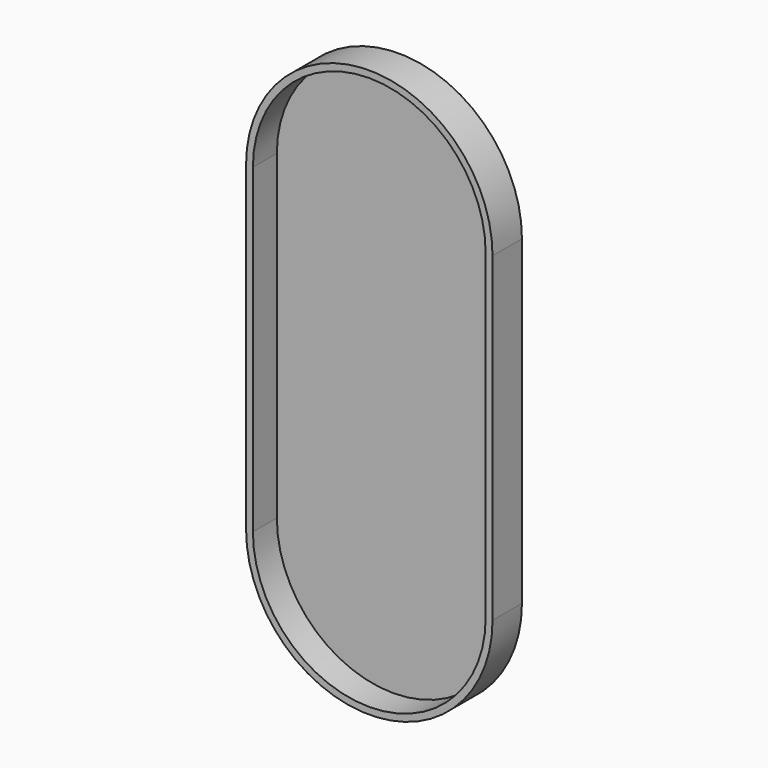
from build123d import *

# Parameters (mm, degrees)
F3_DEPTH = 7
F4_DEPTH = 1.6


with BuildPart() as f3:
    # F2 (on Front) → F3 (new body)
    with BuildSketch(Plane.XZ):
        with BuildLine():
            ThreePointArc((28.8, 75), (0, 103.8), (-28.8, 75))
            Line((-28.8, 75), (-28.8, 0))
            ThreePointArc((-28.8, 0), (0, -28.8), (28.8, 0))
            Line((28.8, 0), (28.8, 75))
        make_face()
        with BuildLine():
            Line((27.2, 75), (27.2, 0))
            ThreePointArc((27.2, 0), (0, -27.2), (-27.2, 0))
            Line((-27.2, 0), (-27.2, 75))
            ThreePointArc((-27.2, 75), (0, 102.2), (27.2, 75))
        make_face(mode=Mode.SUBTRACT)
    extrude(amount=F3_DEPTH)

    # F2 (on Front) → F4 (join)
    with BuildSketch(Plane.XZ):
        with BuildLine():
            ThreePointArc((28.8, 75), (0, 103.8), (-28.8, 75))
            Line((-28.8, 75), (-28.8, 0))
            ThreePointArc((-28.8, 0), (0, -28.8), (28.8, 0))
            Line((28.8, 0), (28.8, 75))
        make_face()
        with BuildLine():
            Line((27.2, 75), (27.2, 0))
            ThreePointArc((27.2, 0), (0, -27.2), (-27.2, 0))
            Line((-27.2, 0), (-27.2, 75))
            ThreePointArc((-27.2, 75), (0, 102.2), (27.2, 75))
        make_face(mode=Mode.SUBTRACT)
        with BuildLine():
            ThreePointArc((-27.2, 0), (0, -27.2), (27.2, 0))
            Line((27.2, 0), (27.2, 75))
            ThreePointArc((27.2, 75), (0, 102.2), (-27.2, 75))
            Line((-27.2, 75), (-27.2, 0))
        make_face()
    extrude(amount=-F4_DEPTH)


solid = f3.part
